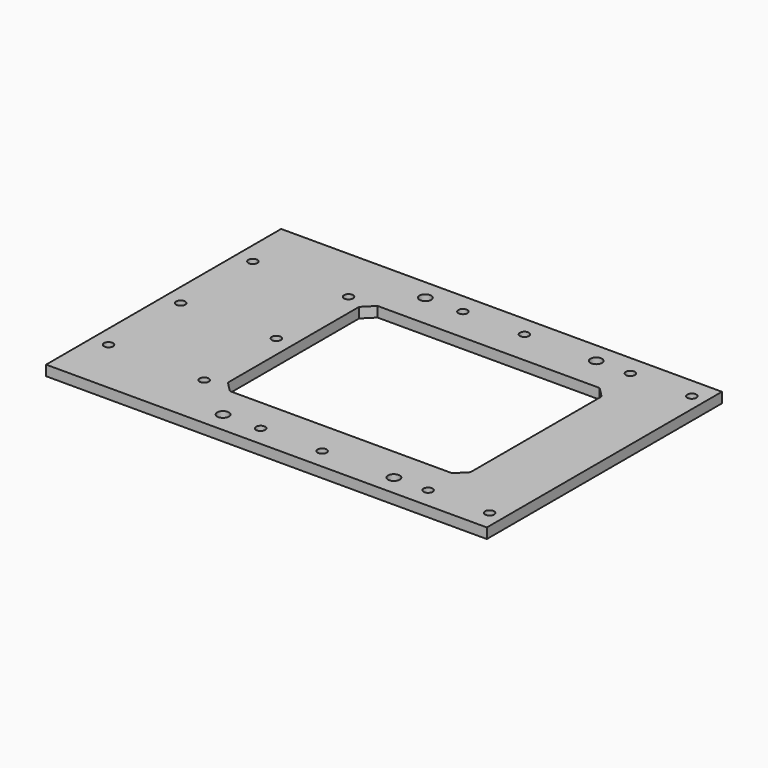
from build123d import *

# Parameters (mm, degrees)
F0_W     = 645
F0_H     = 430
F1_DEPTH = 15
F3_D     = 13.2
F4_R     = 8.5
F5_DEPTH = 15


with BuildPart() as f1:
    # F0 (on Top) → F1 (new body)
    with BuildSketch(Plane.XY):
        Rectangle(F0_W, F0_H)
        Polygon((-132.5, 120), (-117.5, 135), (207.5, 135), (222.5, 120), (222.5, -120), (207.5, -135), (-117.5, -135), (-132.5, -120), align=None, mode=Mode.SUBTRACT)
    extrude(amount=F1_DEPTH)

    # F3 (through all)
    with Locations(Plane(origin=(0, 0, 0), x_dir=(1, 0, 0), z_dir=(0, 0, -1))):
        with Locations((-297.5, -132), (-297.5, 0), (-297.5, 132), (-157.5, -132), (-157.5, 0), (-157.5, 132), (-32.5, 185), (57.5, 185), (212.5, 185), (302.5, 185), (302.5, -185), (212.5, -185), (57.5, -185), (-32.5, -185)):
            Hole(F3_D / 2)

    # F4 (on Top) → F5 (cut, through all)
    with BuildSketch(Plane.XY):
        with Locations((-87.5, 185)):
            Circle(F4_R)
        with Locations((162.5, 185)):
            Circle(F4_R)
        with Locations((162.5, -185)):
            Circle(F4_R)
        with Locations((-87.5, -185)):
            Circle(F4_R)
    extrude(amount=F5_DEPTH, mode=Mode.SUBTRACT)


solid = f1.part
